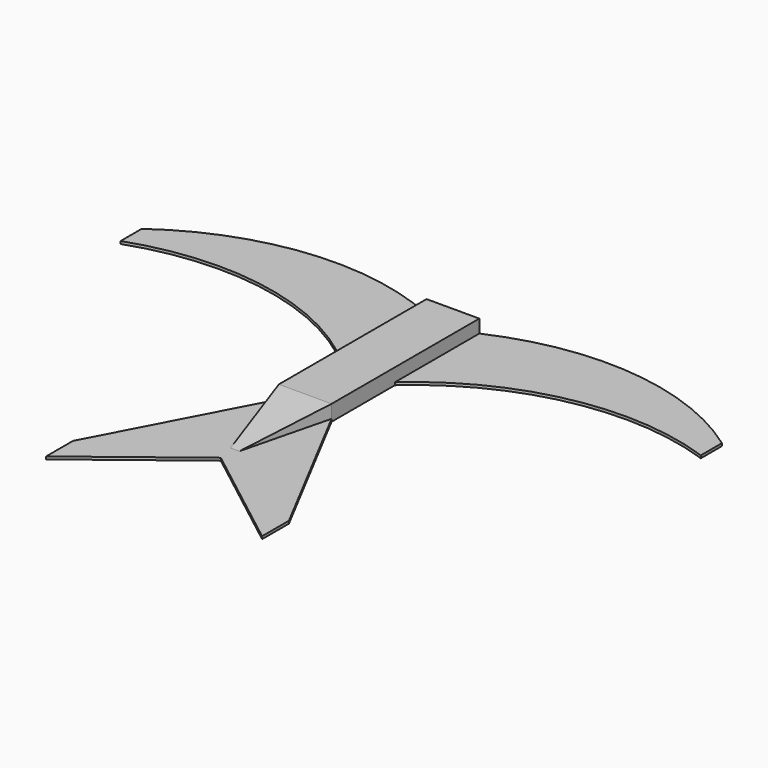
from build123d import *

# Parameters (mm, degrees)
F1_DEPTH = 7.62
F2_DEPTH = 1.27
F4_W     = 50.8
F4_H     = 19.067067
F6_W     = 59.465482
F6_H     = 29.439323
F9_DEPTH = 1.27


with BuildPart() as f1:
    # F0 (on Top) → F1 (new body)
    with BuildSketch(Plane.XY):
        Polygon((12.7, 12.7), (-12.7, 12.7), (-12.7, -38.1), (-12.7, -76.2), (12.7, -76.2), (12.7, -38.1), align=None)
        Polygon((12.7, -76.2), (-12.7, -76.2), (0, -127), align=None)
    extrude(amount=F1_DEPTH)

    # F0 (on Top) → F2 (join)
    with BuildSketch(Plane.XY):
        with BuildLine():
            ThreePointArc((139.7, 0), (77.911288, 23.462884), (12.7, 12.7))
            Line((12.7, 12.7), (12.7, -38.1))
            ThreePointArc((12.7, -38.1), (72.718847, -7.994233), (139.7, -12.7))
            Line((139.7, -12.7), (139.7, 0))
        make_face()
        with BuildLine():
            Line((-12.7, -38.1), (-12.7, 12.7))
            ThreePointArc((-12.7, 12.7), (-77.911288, 23.462884), (-139.7, 0))
            Line((-139.7, 0), (-139.7, -12.7))
            ThreePointArc((-139.7, -12.7), (-72.718847, -7.994233), (-12.7, -38.1))
        make_face()
    extrude(amount=F2_DEPTH)

    # F4 (on offset) → F7 section 0
    with BuildSketch(Plane.XZ.offset(76.2)):
        with Locations((0, 17.153533)):
            Rectangle(F4_W, F4_H)
    # F6 (on offset) → F7 section 1
    with BuildSketch(Plane.XZ.offset(127)):
        with Locations((0.102181, 14.719661)):
            Rectangle(F6_W, F6_H)
    loft(mode=Mode.SUBTRACT)

    # F0 (on Top) + F8 (on face) → F9 (join)
    with BuildSketch(Plane.XY):
        Polygon((12.7, -76.2), (-12.7, -76.2), (0, -127), align=None)
    with BuildSketch(Plane.XY):
        Polygon((0, -127), (-12.7, -76.2), (-52.008614, -151.024356), (-52.008614, -167.176113), align=None)
        Polygon((52.008614, -151.024356), (12.7, -76.2), (0, -127), (52.008614, -167.176113), align=None)
    extrude(amount=F9_DEPTH)


solid = f1.part
